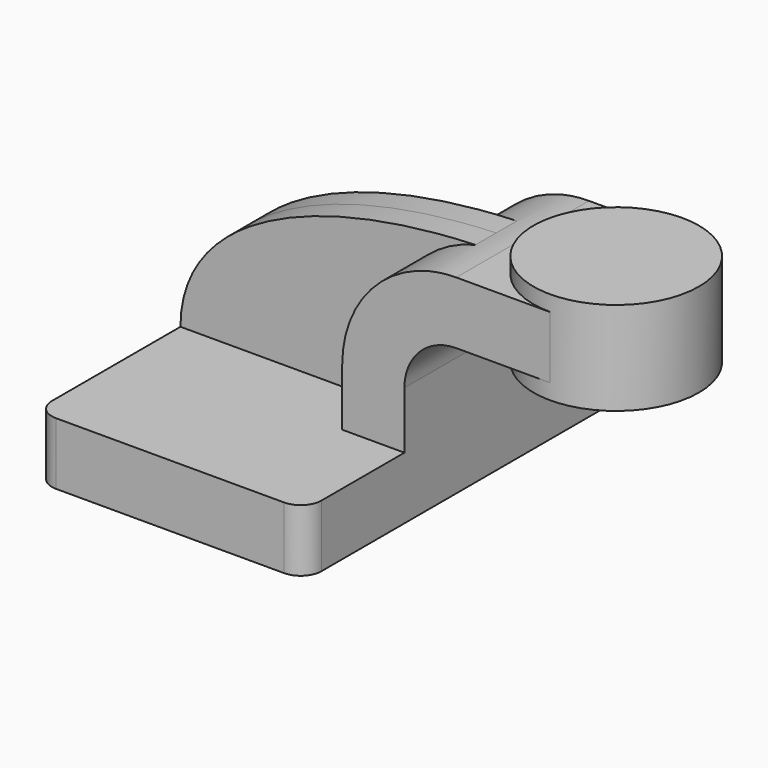
from build123d import *

# Parameters (mm, degrees)
F1_DEPTH = 63.5
F0_W     = 25.4749524852
F0_H     = 19.05
F2_DEPTH = 25.4
F3_DEPTH = 7.9375
F5_R     = 6.35


with BuildPart() as f1:
    # F0 (on Front) → F1 (new body, symmetric)
    with BuildSketch(Plane.XZ):
        Polygon((41.275, -9.525), (41.275, 9.525), (22.225, 9.525), (-41.275, 9.525), (-41.275, -9.525), align=None)
    extrude(amount=F1_DEPTH, both=True)

    # F0 (on Front) → F2 (join, symmetric)
    with BuildSketch(Plane.XZ):
        with BuildLine():
            Line((22.225, 9.525), (41.275, 9.525))
            Line((41.275, 9.525), (41.275, 27.0002))
            ThreePointArc((41.275, 27.0002), (45.9246798487, 38.2255201513), (57.15, 42.8752))
            Line((57.15, 42.8752), (60.325, 42.8752))
            Line((60.325, 42.8752), (60.325, 61.9252))
            Line((60.325, 61.9252), (57.15, 61.9252))
            ThreePointArc((57.15, 61.9252), (53.0680704253, 61.6858378916), (49.0420927056, 60.9710325524))
            ThreePointArc((49.0420927056, 60.9710325524), (29.7371901544, 48.6402896803), (22.225, 27.0002))
            Line((22.225, 27.0002), (22.225, 9.525))
        make_face()
        with Locations((73.0624762426, 52.4002)):
            Rectangle(F0_W, F0_H)
    extrude(amount=F2_DEPTH, both=True)

    # F0 (on Front) → F3 (join, symmetric)
    with BuildSketch(Plane.XZ):
        with BuildLine():
            Line((-41.275, 9.525), (22.225, 9.525))
            Line((22.225, 9.525), (22.225, 27.0002))
            ThreePointArc((22.225, 27.0002), (29.7371901544, 48.6402896803), (49.0420927056, 60.9710325524))
            add(Edge.make_bspline(
                [(-41.275, 9.525), (-41.1753505468, 41.8217629194), (0, 59.1593452108), (49.0420927056, 60.9710325524)],
                knots=[0, 0, 0, 0, 103.941673549, 103.941673549, 103.941673549, 103.941673549], degree=3))
        make_face()
    extrude(amount=F3_DEPTH, both=True)

    # F0 (on Front) → F4 (revolve)
    with BuildSketch(Plane.XZ):
        Polygon((85.7999524852, 61.9252), (85.7999524852, 42.8752), (85.7999524852, 38.1), (111.125, 38.1), (111.125, 66.675), (85.7999524852, 66.675), align=None)
    revolve(axis=Axis((85.7999524852, 0, 52.3875), (0, 0, 1)))

    # F5
    f5_edges = [f1.edges().sort_by_distance(p)[0] for p in [
        (41.275, -63.5, 0),
        (41.275, 63.5, 0),
        (-41.275, 63.5, 0),
        (-41.275, -63.5, 0),
    ]]
    fillet(f5_edges, radius=F5_R)


solid = f1.part
